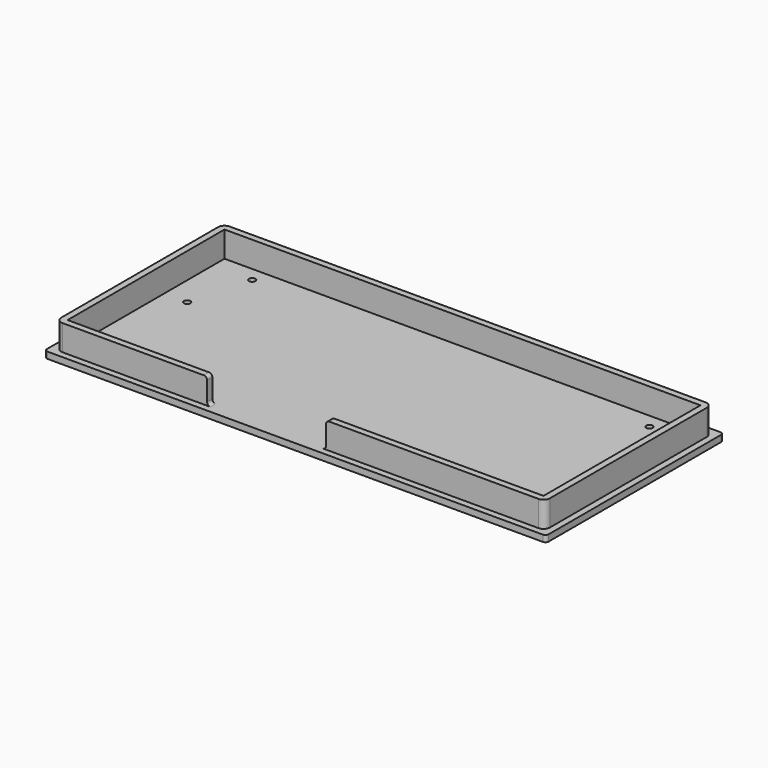
from build123d import *

# Parameters (mm, degrees)
F0_W     = 156
F0_H     = 69.000003
F0_R     = 1
F0_W_2   = 37
F0_H_2   = 2
F1_DEPTH = 2
F2_DEPTH = 8
F3_R     = 1
F4_R     = 2


with BuildPart() as f1:
    # F0 (on Top) → F1 (new body)
    with BuildSketch(Plane.XY):
        with Locations((26.202309, 3.732657)):
            Rectangle(F0_W, F0_H)
        Polygon((-49.797689, 36.232657), (102.202308, 36.232657), (102.202308, -28.767343), (34.202309, -28.767343), (-2.797691, -28.767343), (-49.797689, -28.767343), align=None, mode=Mode.SUBTRACT)
        Polygon((102.202308, -28.767343), (102.202308, 36.232657), (-49.797689, 36.232657), (-49.797689, -28.767343), (-2.797691, -28.767343), (-2.797691, -26.767343), (-47.797689, -26.767343), (-47.797689, 34.232657), (100.202308, 34.232657), (100.202308, -26.767343), (34.202309, -26.767343), (34.202309, -28.767343), align=None)
        Polygon((-2.797691, -26.767343), (34.202309, -26.767343), (100.202308, -26.767343), (100.202308, 34.232657), (-47.797689, 34.232657), (-47.797689, -26.767343), align=None)
        with Locations((-40.572589, 10.712606)):
            Circle(F0_R, mode=Mode.SUBTRACT)
        with Locations((-35.572589, 29.712606)):
            Circle(F0_R, mode=Mode.SUBTRACT)
        with Locations((92.977207, 10.712606)):
            Circle(F0_R, mode=Mode.SUBTRACT)
        with Locations((87.977207, 29.712606)):
            Circle(F0_R, mode=Mode.SUBTRACT)
        with Locations((15.702309, -27.767343)):
            Rectangle(F0_W_2, F0_H_2)
    extrude(amount=-F1_DEPTH)

    # F0 (on Top) → F2 (join)
    with BuildSketch(Plane.XY):
        Polygon((102.202308, -28.767343), (102.202308, 36.232657), (-49.797689, 36.232657), (-49.797689, -28.767343), (-2.797691, -28.767343), (-2.797691, -26.767343), (-47.797689, -26.767343), (-47.797689, 34.232657), (100.202308, 34.232657), (100.202308, -26.767343), (34.202309, -26.767343), (34.202309, -28.767343), align=None)
    extrude(amount=F2_DEPTH)

    # F3
    f3_edges = [f1.edges().sort_by_distance(p)[0] for p in [
        (-51.797691, 38.232658, -1),
        (-51.797691, -30.767345, -1),
        (104.202309, -30.767345, -1),
        (104.202309, 38.232658, -1),
        (34.202309, -27.767343, 8),
        (-2.797691, -27.767343, 8),
        (34.202309, -27.767343, 0),
        (-2.797691, -27.767343, 0),
    ]]
    fillet(f3_edges, radius=F3_R)

    # F4
    f4_edges = [f1.edges().sort_by_distance(p)[0] for p in [
        (-49.797689, -28.767343, 4),
        (102.202308, -28.767343, 4),
        (102.202308, 36.232657, 4),
        (-49.797689, 36.232657, 4),
    ]]
    fillet(f4_edges, radius=F4_R)


solid = f1.part
